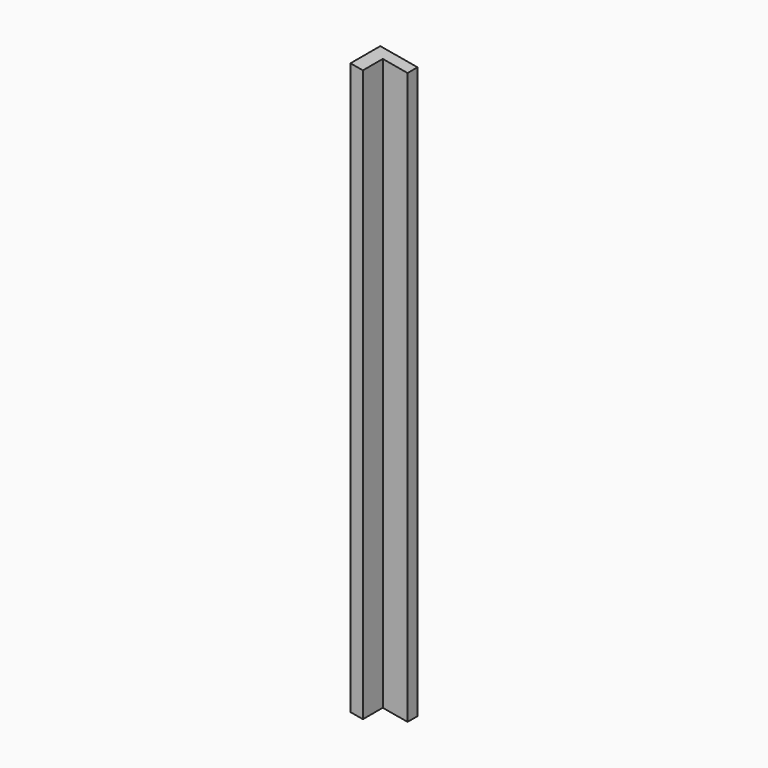
from build123d import *

# Parameters (mm, degrees)
F1_DEPTH = 1016
F3_DEPTH = 57.151
F5_DEPTH = 57.151


with BuildPart() as f1:
    # F0 (on Top) → F1 (new body)
    with BuildSketch(Plane.XY):
        Polygon((57.15, 0), (0, 0), (0, -57.15), (19.05, -57.15), (19.05, -19.05), (57.15, -19.05), align=None)
    extrude(amount=F1_DEPTH)

    # F2 (on face) → F3 (cut, through all)
    with BuildSketch(Plane(origin=(0, 0, 0), x_dir=(-1, 0, 0), z_dir=(0, 1, 0))):
        Polygon((0, 10.077087), (-57.15, 0), (0, 0), align=None)
        Polygon((0, 886.999509), (0, 1016), (-57.15, 1016), (-57.15, 876.922422), align=None)
    extrude(amount=-F3_DEPTH, mode=Mode.SUBTRACT)

    # F4 (on face) → F5 (cut, through all)
    with BuildSketch(Plane(origin=(0, 0, 0), x_dir=(-1, 0, 0), z_dir=(0, 1, 0))):
        Polygon((-0.441066, 12.578499), (0, 10.077087), (0, 12.656271), align=None)
    extrude(amount=-F5_DEPTH, mode=Mode.SUBTRACT)


solid = f1.part
